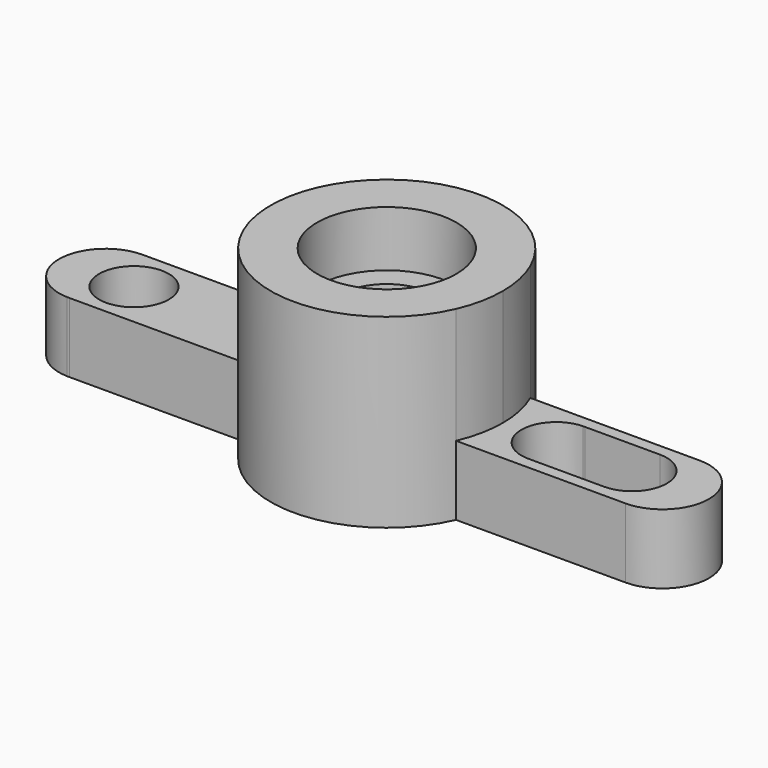
from build123d import *

# Parameters (mm, degrees)
F0_R     = 9.525
F1_DEPTH = 19.05
F0_R_2   = 19.05
F2_DEPTH = 50.8
F3_DEPTH = 35.56


with BuildPart() as f1:
    # F0 (on Top) → F1 (new body)
    with BuildSketch(Plane.XY):
        with BuildLine():
            ThreePointArc((-29.100544, -12.697276), (-31.75, -0.000106), (-29.100629, 12.697083))
            Line((-29.100629, 12.697083), (-76.585714, 12.695758))
            Line((-76.585714, 12.695758), (-77.2429, 12.695739))
            ThreePointArc((-77.2429, 12.695739), (-89.613952, -0.005562), (-77.23178, -12.696022))
            Line((-77.23178, -12.696022), (-76.596787, -12.696039))
            Line((-76.596787, -12.696039), (-29.100544, -12.697276))
        make_face()
        with Locations((-69.138251, 0)):
            Circle(F0_R, mode=Mode.SUBTRACT)
        with BuildLine():
            ThreePointArc((29.09992, 12.698707), (31.08042, 6.486141), (31.75, 0))
            ThreePointArc((31.75, 0), (31.08041, -6.486187), (29.099882, -12.698793))
            Line((29.099882, -12.698793), (75.431836, -12.7))
            ThreePointArc((75.431836, -12.7), (88.132166, 1.2e-05), (75.431812, 12.7))
            Line((75.431812, 12.7), (29.09992, 12.698707))
        make_face()
        with BuildLine():
            ThreePointArc((67.078047, 9.525), (76.60549, 0.001222), (67.08049, -9.525))
            Line((67.08049, -9.525), (46.345286, -9.525))
            ThreePointArc((46.345286, -9.525), (36.821636, -0.160386), (46.02456, 9.519599))
            ThreePointArc((46.02456, 9.519599), (46.342843, 9.525), (46.661128, 9.519762))
            Line((46.661128, 9.519762), (67.078047, 9.525))
        make_face(mode=Mode.SUBTRACT)
    extrude(amount=F1_DEPTH)


with BuildPart() as f2:
    # F0 (on Top) → F2 (new body)
    with BuildSketch(Plane.XY):
        with BuildLine():
            ThreePointArc((29.099882, -12.698793), (31.08041, -6.486187), (31.75, 0))
            ThreePointArc((31.75, 0), (31.08042, 6.486141), (29.09992, 12.698707))
            ThreePointArc((29.09992, 12.698707), (-0.000886, 31.75), (-29.100629, 12.697083))
            ThreePointArc((-29.100629, 12.697083), (-31.75, -0.000106), (-29.100544, -12.697276))
            ThreePointArc((-29.100544, -12.697276), (-0.000827, -31.75), (29.099882, -12.698793))
        make_face()
        Circle(F0_R_2, mode=Mode.SUBTRACT)
    extrude(amount=F2_DEPTH)

    # F0 (on Top) → F3 (join)
    with BuildSketch(Plane.XY):
        Circle(F0_R_2)
        with BuildLine():
            ThreePointArc((0.230873, 12.697901), (9.061514, 8.898256), (12.7, 0))
            ThreePointArc((12.7, 0), (9.058786, -8.901033), (0.223088, -12.69804))
            ThreePointArc((0.223088, -12.69804), (-0.000331, -12.7), (-0.223749, -12.698029))
            ThreePointArc((-0.223749, -12.698029), (-12.699999, -0.003917), (-0.231582, 12.697888))
            ThreePointArc((-0.231582, 12.697888), (-0.000354, 12.7), (0.230873, 12.697901))
        make_face(mode=Mode.SUBTRACT)
    extrude(amount=F3_DEPTH)


solid = Compound([f1.part, f2.part])
